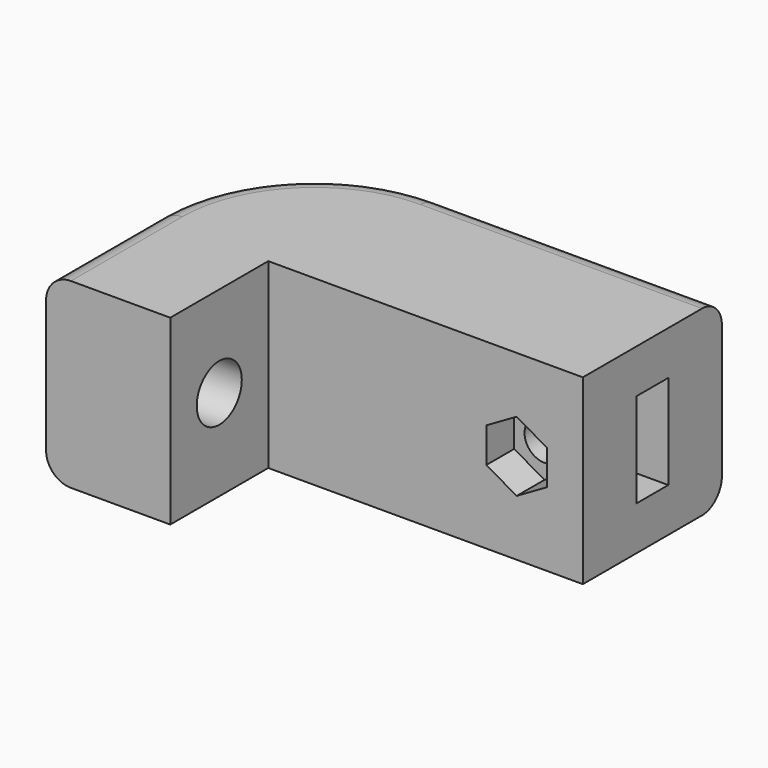
from build123d import *

# Parameters (mm, degrees)
PAD_DEPTH       = 22
SKETCH001_R     = 3.4
POCKET_DEPTH    = 15.001
SKETCH002_W     = 4.8
SKETCH002_H     = 11.4
POCKET001_DEPTH = 13.5
SKETCH003_R     = 2.4
POCKET002_DEPTH = 35.801
SKETCH004_R     = 3.9
POCKET003_DEPTH = 4
POCKET004_DEPTH = 4.2
FILLET_R        = 19
FILLET001_R     = 3
FILLET002_R     = 5


with BuildPart() as part:
    # Sketch → Pad (new body)
    with BuildSketch(Plane.XY):
        Polygon((0, 0), (0, 14.8), (38, 14.8), (38, 35.8), (-15, 35.8), (-15, 0), align=None)
    extrude(amount=PAD_DEPTH)

    # Sketch001 (on Face1 of Pad) → Pocket (cut, through all)
    with BuildSketch(Plane.YZ):
        with Locations((7.4, 11)):
            Circle(SKETCH001_R)
    extrude(amount=-POCKET_DEPTH, mode=Mode.SUBTRACT)

    # Sketch002 (on Face8 of Pocket) → Pocket001 (cut)
    with BuildSketch(Plane.YZ.offset(38)):
        with Locations((25.3, 11)):
            Rectangle(SKETCH002_W, SKETCH002_H)
    extrude(amount=-POCKET001_DEPTH, mode=Mode.SUBTRACT)

    # Sketch003 (on Face9 of Pocket001) → Pocket002 (cut, through all)
    with BuildSketch(Plane(origin=(0, 35.8, 0), x_dir=(-1, 0, 0), z_dir=(0, 1, 0))):
        with Locations((-30, 11)):
            Circle(SKETCH003_R)
    extrude(amount=-POCKET002_DEPTH, mode=Mode.SUBTRACT)

    # Sketch004 (on Face9 of Pocket002) → Pocket003 (cut)
    with BuildSketch(Plane(origin=(0, 35.8, 0), x_dir=(-1, 0, 0), z_dir=(0, 1, 0))):
        with Locations((-30, 11)):
            Circle(SKETCH004_R)
    extrude(amount=-POCKET003_DEPTH, mode=Mode.SUBTRACT)

    # Sketch005 (on Face5 of Pocket003) → Pocket004 (cut)
    with BuildSketch(Plane.XZ.offset(-14.8)):
        Polygon((30, 6.785343), (33.65, 8.892672), (33.65, 13.107328), (30, 15.214657), (26.35, 13.107328), (26.35, 8.892672), align=None)
    extrude(amount=-POCKET004_DEPTH, mode=Mode.SUBTRACT)

    # Fillet
    fillet_edges = [part.edges().sort_by_distance(p)[0] for p in [
        (-15, 35.8, 11),
    ]]
    fillet(fillet_edges, radius=FILLET_R)

    # Fillet001
    fillet001_edges = [part.edges().sort_by_distance(p)[0] for p in [
        (-15, 8.4, 22),
        (-15, 8.4, 0),
    ]]
    fillet(fillet001_edges, radius=FILLET001_R)

    # Fillet002
    fillet002_edges = [part.edges().sort_by_distance(p)[0] for p in [
        (24.5, 25.3, 16.7),
        (24.5, 25.3, 5.3),
    ]]
    fillet(fillet002_edges, radius=FILLET002_R)


solid = part.part
